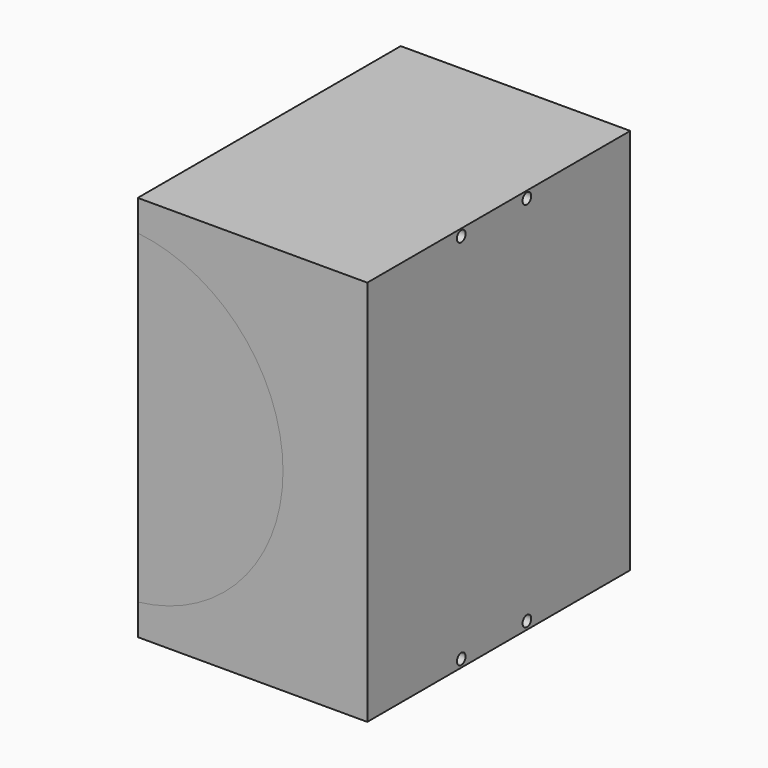
from build123d import *

# Parameters (mm, degrees)
F1_DEPTH = 107.95
F2_DEPTH = 6.35
F3_START = 101.6
F3_DEPTH = 6.35
F5_D     = 3.556
F5_DEPTH = 12.7
F5_TIP   = 1.0683301806


with BuildPart() as f1:
    # F0 (on Front) → F1 (new body)
    with BuildSketch(Plane.XZ):
        with BuildLine():
            ThreePointArc((0, 53.5943763483), (47.7032426175, 0.2543763483), (0, -53.0856236517))
            Line((0, -53.0856236517), (0, -63.2456236517))
            Line((0, -63.2456236517), (75.3796324134, -63.2456236517))
            Line((75.3796324134, -63.2456236517), (75.3796324134, 63.7543763483))
            Line((75.3796324134, 63.7543763483), (0, 63.7543763483))
            Line((0, 63.7543763483), (0, 53.5943763483))
        make_face()
    extrude(amount=F1_DEPTH)

    # F0 (on Front) → F2 (join)
    with BuildSketch(Plane.XZ):
        with BuildLine():
            Line((0, 53.5943763483), (0, -53.0856236517))
            ThreePointArc((0, -53.0856236517), (47.7032426175, 0.2543763483), (0, 53.5943763483))
        make_face()
    extrude(amount=F2_DEPTH)

    # F5
    with Locations(Plane.YZ.offset(75.3796324134)):
        with Locations((-69.3758997451, 61.4874158989), (-42.4351313819, 61.4874158989), (-69.3758997451, -60.7033524643), (-42.4351313819, -60.7033524643)):
            Hole(F5_D / 2, depth=F5_DEPTH)
            with Locations((0, 0, -(F5_DEPTH + F5_TIP / 2))):  # 118° drill point
                Cone(0, F5_D / 2, F5_TIP, mode=Mode.SUBTRACT)


with BuildPart() as f3:
    # F0 (on Front) → F3 (new body)
    with BuildSketch(Plane.XZ.offset(F3_START)):
        with BuildLine():
            Line((0, 53.5943763483), (0, -53.0856236517))
            ThreePointArc((0, -53.0856236517), (47.7032426175, 0.2543763483), (0, 53.5943763483))
        make_face()
    extrude(amount=F3_DEPTH)


solid = Compound([f1.part, f3.part])
